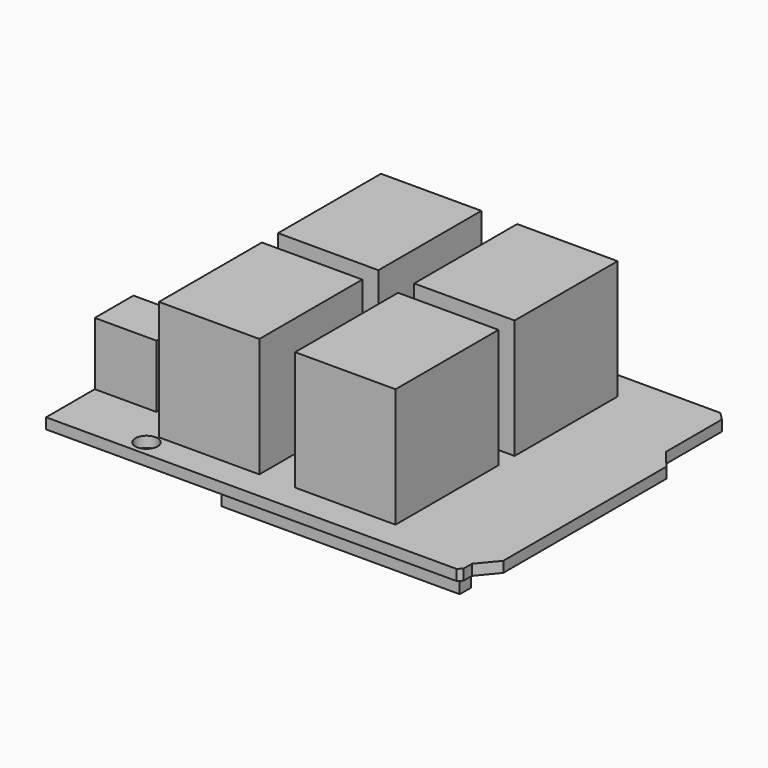
from build123d import *

# Parameters (mm, degrees)
SKETCH_W     = 37.973
SKETCH_H     = 2.286
PAD_DEPTH    = 2.54
PAD001_DEPTH = 1.7
SKETCH002_R  = 1.778
POCKET_DEPTH = 5
SKETCH003_W  = 16
SKETCH003_H  = 20.5
PAD002_DEPTH = 19
SKETCH007_W  = 9.8
SKETCH007_H  = 7.7
PAD004_DEPTH = 10


with BuildPart() as part:
    # Sketch (on Face2 of Binder001) → Pad (new body)
    with BuildSketch(Plane.XY.offset(10.414)):
        with Locations((-20.1295, 2.413)):
            Rectangle(SKETCH_W, SKETCH_H)
    extrude(amount=PAD_DEPTH)

    # Sketch001 (on Face6 of Pad) → Pad001 (join)
    with BuildSketch(Plane.XY.offset(12.954)):
        Polygon((-66.04, 53.34), (-1.27, 53.34), (0, 52.07), (0, 40.903026), (2.54, 37.836974), (2.54, 5.343026), (0, 2.276974), (0, 0.635), (-0.635, 0), (-66.04, 0), align=None)
    extrude(amount=PAD001_DEPTH)

    # Sketch002 (on Face5 of Pad001) → Pocket (cut)
    with BuildSketch(Plane.XY.offset(14.654)):
        with Locations((-52.07, 2.54)):
            Circle(SKETCH002_R)
        with Locations((-50.8, 50.8)):
            Circle(SKETCH002_R)
    extrude(amount=-POCKET_DEPTH, mode=Mode.SUBTRACT)

    # Sketch003 (on Face5 of Pocket) → Pad002 (join)
    with BuildSketch(Plane.XY.offset(14.654)):
        with Locations((-43.7, 38.53)):
            Rectangle(SKETCH003_W, SKETCH003_H)
        with Locations((-22, 38.53)):
            Rectangle(SKETCH003_W, SKETCH003_H)
        with Locations((-43.7, 14.81)):
            Rectangle(SKETCH003_W, SKETCH003_H)
        with Locations((-22, 14.81)):
            Rectangle(SKETCH003_W, SKETCH003_H)
    extrude(amount=PAD002_DEPTH)

    # Sketch007 (on Face5 of Pad002) → Pad004 (join)
    with BuildSketch(Plane.XY.offset(14.654)):
        with Locations((-61.14, 13.55)):
            Rectangle(SKETCH007_W, SKETCH007_H)
    extrude(amount=PAD004_DEPTH)


solid = part.part
